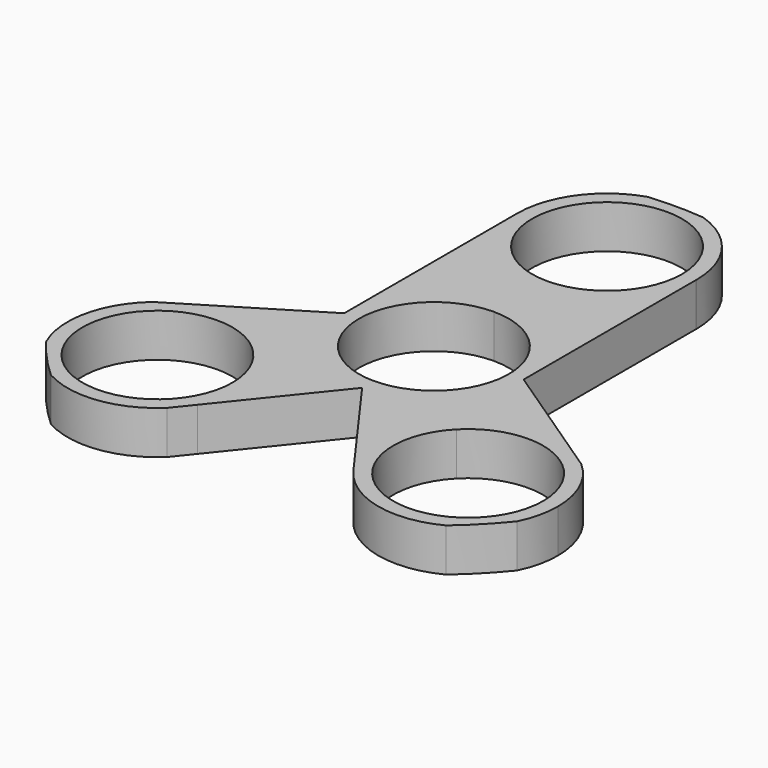
from build123d import *

# Parameters (mm, degrees)
F1_DEPTH = 6.35


with BuildPart() as f1:
    # F0 (on Top) → F1 (new body)
    with BuildSketch(Plane.XY):
        with BuildLine():
            ThreePointArc((0, 18.58518), (-9.3089334951, 22.4410665049), (-13.16482, 31.75))
            Line((-13.16482, 31.75), (-13.1644617216, 0))
            ThreePointArc((-13.1644617208, 0), (-9.3086801535, 9.3086801535), (0, 13.1644617208))
            Line((0, 13.1644617208), (0, 18.58518))
        make_face()
        with BuildLine():
            Line((13.1644617208, 0), (13.1644617208, 31.6528751634))
            ThreePointArc((13.1644617208, 31.6528751634), (9.2745311106, 22.4067907916), (0, 18.58518))
            Line((0, 18.58518), (0, 13.1644617208))
            ThreePointArc((0, 13.1644617208), (9.3086801535, 9.3086801535), (13.1644617208, 0))
        make_face()
        with BuildLine():
            ThreePointArc((13.16482, 31.75), (10.6598587783, 39.4752764649), (4.0982476565, 44.2606695176))
            ThreePointArc((4.0982476565, 44.2606695176), (0, 44.45), (-4.0982476565, 44.2606695176))
            ThreePointArc((-4.0982476565, 44.2606695176), (-10.6598587783, 39.4752764649), (-13.16482, 31.75))
            ThreePointArc((-13.16482, 31.75), (-9.3089334951, 22.4410665049), (0, 18.58518))
            ThreePointArc((0, 18.58518), (9.2745311106, 22.4067907916), (13.1644617208, 31.6528751634))
            ThreePointArc((13.1644617208, 31.6528751634), (13.1647304299, 31.7014372513), (13.16482, 31.75))
        make_face()
        with BuildLine():
            ThreePointArc((10.9982, 31.75), (7.7769018008, 23.9730981992), (0, 20.7518))
            ThreePointArc((0, 20.7518), (-7.7769018008, 39.5269018008), (10.9982, 31.75))
        make_face(mode=Mode.SUBTRACT)
        with BuildLine():
            Line((28.6479583214, -10.3865603875), (13.1644617208, 0))
            ThreePointArc((13.1644617208, 0), (12.1952548998, -4.9577021218), (9.4303462135, -9.1854026963))
            Line((9.4303462135, -9.1854026963), (13.3134711891, -12.9676675054))
            ThreePointArc((13.3134711891, -12.9676675054), (20.5589048377, -9.1711200232), (28.6479583214, -10.3865603875))
        make_face()
        with BuildLine():
            Line((0, -13.1644617208), (12.0755330866, -29.8666021893))
            ThreePointArc((12.0755330866, -29.8666021893), (9.6144360525, -21.1915033956), (13.3134711891, -12.9676675054))
            Line((13.3134711891, -12.9676675054), (9.4303462135, -9.1854026963))
            ThreePointArc((9.4303462135, -9.1854026963), (5.1177226485, -12.1289722273), (0, -13.1644617208))
        make_face()
        with BuildLine():
            Line((-12.1184271097, -28.24959656), (0, -13.1644617208))
            ThreePointArc((0, -13.1644617208), (-5.3008448602, -12.0500662308), (-9.7042375145, -8.8955509475))
            Line((-9.7042375145, -8.8955509475), (-13.6933457342, -12.552233438))
            ThreePointArc((-13.6933457342, -12.552233438), (-11.1267702664, -16.6783641888), (-10.2306038586, -21.4542568146))
            ThreePointArc((-10.2306038586, -21.4542568146), (-10.7113306421, -24.9806047442), (-12.1184271097, -28.24959656))
        make_face()
        with BuildLine():
            ThreePointArc((-9.7042375145, -8.8955509475), (-12.2689468922, -4.7724201989), (-13.1644617208, 0))
            Line((-13.1644617216, 0), (-28.256373619, -9.2061526245))
            ThreePointArc((-28.256373619, -9.2061526245), (-20.4545734962, -8.6147700914), (-13.6933457342, -12.552233438))
            Line((-13.6933457342, -12.552233438), (-9.7042375145, -8.8955509475))
        make_face()
        with BuildLine():
            ThreePointArc((-32.0748573742, -11.5354495673), (-36.2751776248, -18.6427266171), (-35.4211728391, -26.8541061051))
            ThreePointArc((-35.4211728391, -26.8541061051), (-32.7665017127, -30.0359595404), (-29.8270607251, -32.9567739395))
            ThreePointArc((-29.8270607251, -32.9567739395), (-21.7623116842, -34.5255260746), (-14.336317666, -31.010448096))
            Line((-14.336317666, -31.010448096), (-12.1184271097, -28.24959656))
            ThreePointArc((-12.1184271097, -28.24959656), (-10.7113306421, -24.9806047442), (-10.2306038586, -21.4542568146))
            ThreePointArc((-10.2306038586, -21.4542568146), (-11.1267702664, -16.6783641888), (-13.6933457342, -12.552233438))
            ThreePointArc((-13.6933457342, -12.552233438), (-20.4545734962, -8.6147700914), (-28.256373619, -9.2061526245))
            Line((-28.256373619, -9.2061526245), (-32.0748573742, -11.5354495673))
        make_face()
        with BuildLine():
            ThreePointArc((-12.4064440805, -21.4542568146), (-33.6546895872, -25.4413573086), (-15.297275371, -14.022502254))
            ThreePointArc((-15.297275371, -14.022502254), (-13.1545985737, -17.4671563205), (-12.4064440805, -21.4542568146))
        make_face(mode=Mode.SUBTRACT)
        with BuildLine():
            ThreePointArc((28.8465559908, -33.8183191106), (31.8417036776, -31.0146482635), (34.5655980408, -27.946769618))
            ThreePointArc((34.5655980408, -27.946769618), (35.5686738743, -25.1268912937), (35.9088940555, -22.1533201882))
            ThreePointArc((35.9088940555, -22.1533201882), (34.7265846396, -16.700621248), (31.392018666, -12.2273169822))
            Line((31.392018666, -12.2273169822), (28.6479583214, -10.3865603875))
            ThreePointArc((28.6479583214, -10.3865603875), (20.5589048377, -9.1711200232), (13.3134711891, -12.9676675054))
            ThreePointArc((13.3134711891, -12.9676675054), (9.6144360525, -21.1915033956), (12.0755330866, -29.8666021893))
            ThreePointArc((12.0755330866, -29.8666021893), (19.7247628044, -34.9672284601), (28.8465559908, -33.8183191106))
        make_face()
        with BuildLine():
            ThreePointArc((33.7422740555, -22.1533201882), (18.6021804762, -32.3417999972), (14.8655268026, -14.479410075))
            ThreePointArc((14.8655268026, -14.479410075), (26.8859676347, -11.9648403792), (33.7422740555, -22.1533201882))
        make_face(mode=Mode.SUBTRACT)
        with BuildLine():
            ThreePointArc((0, 13.1644617208), (-9.3086801535, 9.3086801535), (-13.1644617208, 0))
            ThreePointArc((-13.1644617208, 0), (-12.2689468922, -4.7724201989), (-9.7042375145, -8.8955509475))
            Line((-9.7042375145, -8.8955509475), (-8.1073687095, -7.4317545606))
            ThreePointArc((-8.1073687095, -7.4317545606), (-10.0671824819, 4.4285708887), (0, 10.9982))
            Line((0, 10.9982), (0, 13.1644617208))
        make_face()
        with BuildLine():
            ThreePointArc((9.4303462135, -9.1854026963), (12.1952548998, -4.9577021218), (13.1644617208, 0))
            ThreePointArc((13.1644617208, 0), (9.3086801535, 9.3086801535), (0, 13.1644617208))
            Line((0, 13.1644617208), (0, 10.9982))
            ThreePointArc((0, 10.9982), (7.7769018008, 7.7769018008), (10.9982, 0))
            ThreePointArc((10.9982, 0), (10.188479809, -4.1418935793), (7.8785472528, -7.6739101132))
            Line((7.8785472528, -7.6739101132), (9.4303462135, -9.1854026963))
        make_face()
        with BuildLine():
            ThreePointArc((-9.7042375145, -8.8955509475), (-5.3008448602, -12.0500662308), (0, -13.1644617208))
            ThreePointArc((0, -13.1644617208), (5.1177226485, -12.1289722273), (9.4303462135, -9.1854026963))
            Line((9.4303462135, -9.1854026963), (7.8785472528, -7.6739101132))
            ThreePointArc((7.8785472528, -7.6739101132), (-0.16658224, -10.9969383738), (-8.1073687095, -7.4317545606))
            Line((-8.1073687095, -7.4317545606), (-9.7042375145, -8.8955509475))
        make_face()
    extrude(amount=F1_DEPTH)


solid = f1.part
